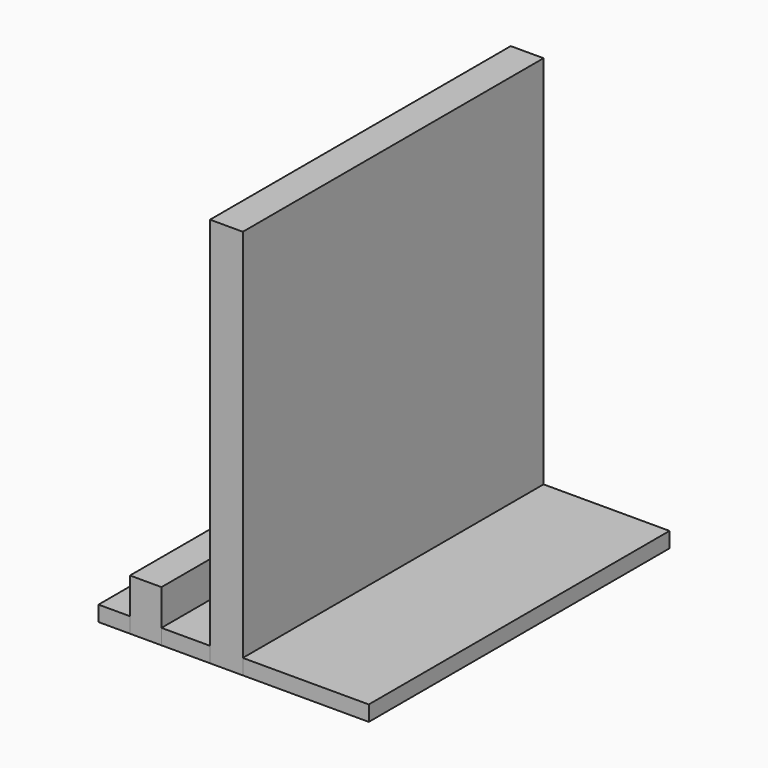
from build123d import *

# Parameters (mm, degrees)
F0_W     = 24.579069
F0_H     = 73.345329
F0_W_2   = 9.473185
F0_W_3   = 6.144766
F1_DEPTH = 3
F0_W_4   = 6.144769
F2_DEPTH = 10
F0_W_5   = 6.400801
F3_DEPTH = 76.2


with BuildPart() as f1:
    # F0 (on Top) → F1 (new body)
    with BuildSketch(Plane.XY):
        with Locations((-9.6012, 6.111802)):
            Rectangle(F0_W, F0_H)
        with Locations((-33.028129, 6.111802)):
            Rectangle(F0_W_2, F0_H)
        with Locations((-46.981873, 6.111802)):
            Rectangle(F0_W_3, F0_H)
    extrude(amount=F1_DEPTH)


with BuildPart() as f2:
    # F0 (on Top) → F2 (new body)
    with BuildSketch(Plane.XY):
        with Locations((-40.837105, 6.111802)):
            Rectangle(F0_W_4, F0_H)
    extrude(amount=F2_DEPTH)


with BuildPart() as f3:
    # F0 (on Top) → F3 (new body)
    with BuildSketch(Plane.XY):
        with Locations((-25.091136, 6.111802)):
            Rectangle(F0_W_5, F0_H)
    extrude(amount=F3_DEPTH)


solid = Compound([f1.part, f2.part, f3.part])
